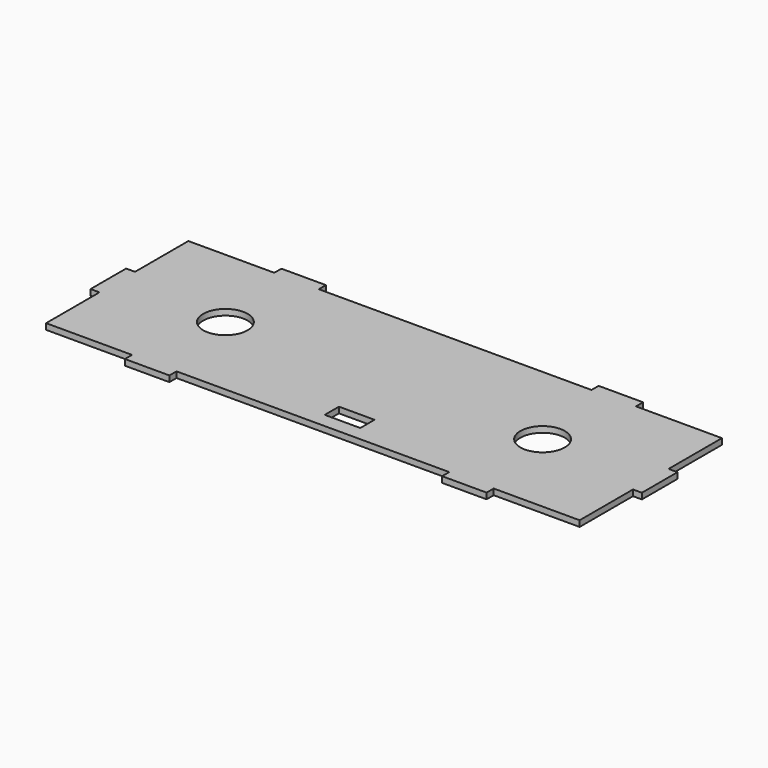
from build123d import *

# Parameters (mm, degrees)
SKETCH001_W   = 180
SKETCH001_H   = 60
SKETCH001_W_2 = 15
SKETCH001_H_2 = 3
SKETCH001_W_3 = 3
SKETCH001_H_3 = 15
PAD_DEPTH     = 2
SKETCH_R      = 7.5
SKETCH_W      = 12
SKETCH_H      = 6
POCKET_DEPTH  = 2


with BuildPart() as part:
    # Sketch001 → Pad (new body)
    with BuildSketch(Plane.XY):
        with Locations((90, 30)):
            Rectangle(SKETCH001_W, SKETCH001_H)
        with Locations((36.5, 61.5)):
            Rectangle(SKETCH001_W_2, SKETCH001_H_2)
        with Locations((36.5, -1.5)):
            Rectangle(SKETCH001_W_2, SKETCH001_H_2)
        with Locations((143.5, 61.5)):
            Rectangle(SKETCH001_W_2, SKETCH001_H_2)
        with Locations((143.5, -1.5)):
            Rectangle(SKETCH001_W_2, SKETCH001_H_2)
        with Locations((-1.5, 30)):
            Rectangle(SKETCH001_W_3, SKETCH001_H_3)
        with Locations((181.5, 30)):
            Rectangle(SKETCH001_W_3, SKETCH001_H_3)
    extrude(amount=PAD_DEPTH)

    # Sketch → Pocket (cut)
    with BuildSketch(Plane.XY):
        with Locations((36.5, 30)):
            Circle(SKETCH_R)
        with Locations((143.5, 30)):
            Circle(SKETCH_R)
        with Locations((96, 8)):
            Rectangle(SKETCH_W, SKETCH_H)
    extrude(amount=POCKET_DEPTH, mode=Mode.SUBTRACT)


solid = part.part
